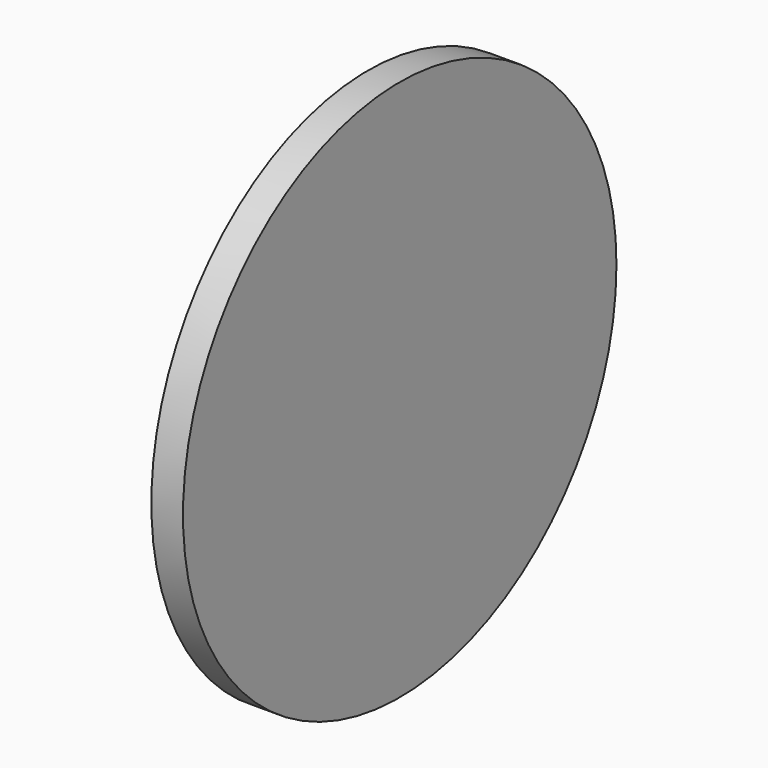
from build123d import *

# Parameters (mm, degrees)
F0_R     = 73.8734991144
F0_R_2   = 18.9267248078
F1_DEPTH = 8.636


with BuildPart() as f1:
    # F0 (on Right) → F1 (new body)
    with BuildSketch(Plane.YZ):
        Circle(F0_R)
        with Locations((-5.1895501092, 9.8208645359)):
            Circle(F0_R_2, mode=Mode.SUBTRACT)
        with Locations((-5.1895501092, 9.8208645359)):
            Circle(F0_R_2)
    extrude(amount=F1_DEPTH)


solid = f1.part
